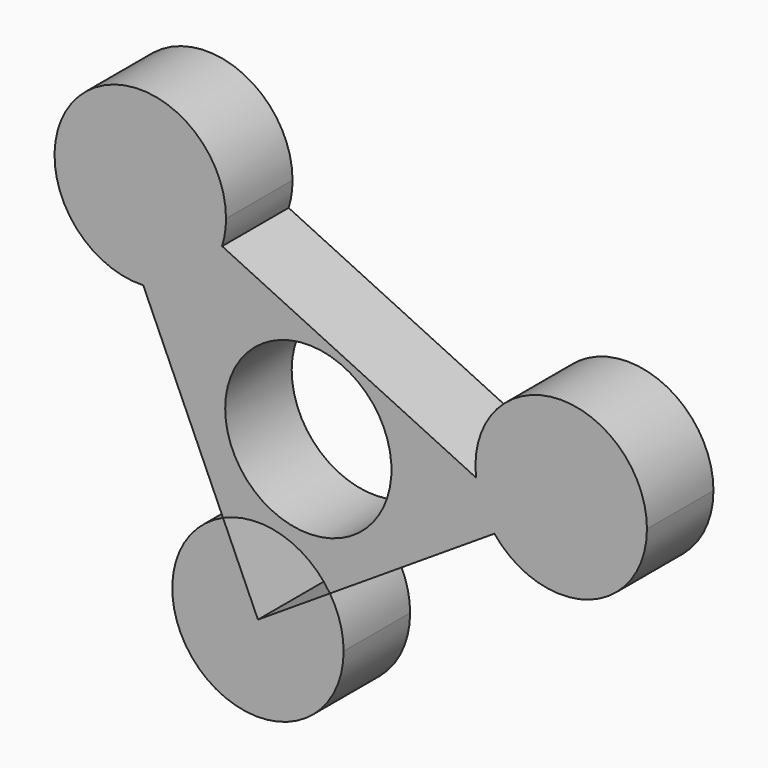
from build123d import *

# Parameters (mm, degrees)
F1_DEPTH = 25.4
F3_D     = 50.8


with BuildPart() as f1:
    # F0 (on Front) → F1 (new body)
    with BuildSketch(Plane.XZ):
        with BuildLine():
            ThreePointArc((-26.3371, 43.33035), (-25.441323, 47.198938), (-25.140427, 51.158465))
            ThreePointArc((-25.140427, 51.158465), (-70.191044, 69.360391), (-50.42896, 24.972011))
            ThreePointArc((-50.42896, 24.972011), (-35.461596, 30.317348), (-26.3371, 43.33035))
        make_face()
        with BuildLine():
            Line((-15.393629, -53.555083), (-26.061423, -29.644623))
            ThreePointArc((-26.061423, -29.644623), (-29.645027, -75.518907), (10.788654, -53.555083))
            ThreePointArc((10.788654, -53.555083), (9.721655, -46.156809), (6.607624, -39.361534))
            Line((6.607624, -39.361534), (-15.393629, -53.555083))
        make_face()
        with BuildLine():
            ThreePointArc((103.476122, 9.49056), (75.673067, 35.644023), (51.266886, 6.295228))
            ThreePointArc((51.266886, 6.295228), (53.139971, -0.71374), (56.863218, -6.940417))
            ThreePointArc((56.863218, -6.940417), (85.984679, -15.221481), (103.476122, 9.49056))
        make_face()
        with BuildLine():
            ThreePointArc((-26.3371, 43.33035), (-35.461596, 30.317348), (-50.42896, 24.972011))
            Line((-50.42896, 24.972011), (-26.061423, -29.644623))
            ThreePointArc((-26.061423, -29.644623), (-7.929286, -28.459356), (6.607624, -39.361534))
            Line((6.607624, -39.361534), (56.863218, -6.940417))
            ThreePointArc((56.863218, -6.940417), (53.139971, -0.71374), (51.266886, 6.295228))
            Line((51.266886, 6.295228), (-26.3371, 43.33035))
        make_face()
    extrude(amount=F1_DEPTH)

    # F3 (through all)
    with Locations(Plane(origin=(0, 0, 0), x_dir=(1, 0, 0), z_dir=(0, 1, 0))):
        with Locations((0, 0)):
            Hole(F3_D / 2)


solid = f1.part
